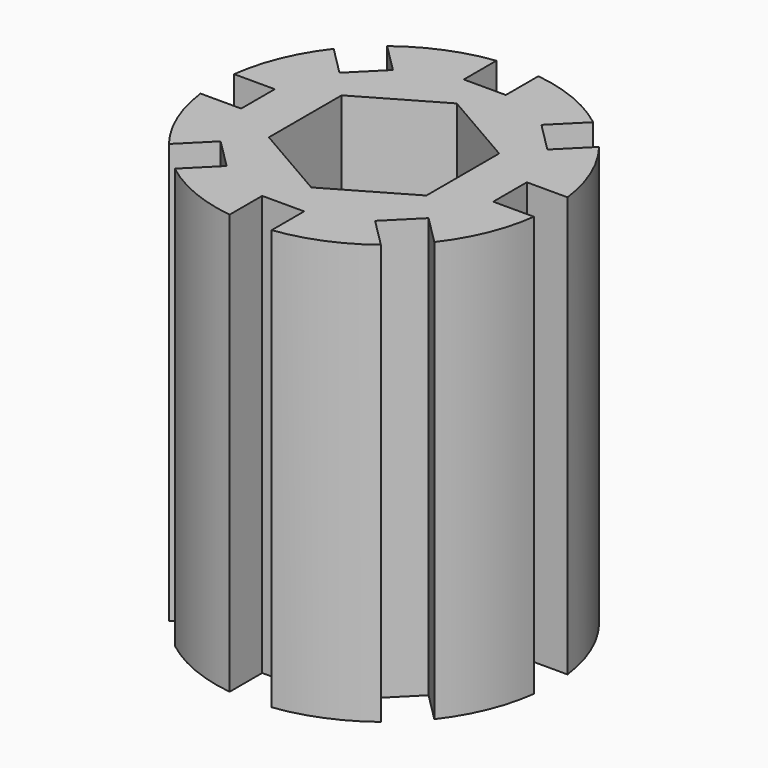
from build123d import *

# Parameters (mm, degrees)
F2_DEPTH = 20


with BuildPart() as f2:
    # F1 (on Top) → F2 (new body)
    with BuildSketch(Plane.XY):
        with BuildLine():
            Line((-1, 6), (-1, 7.937254))
            ThreePointArc((-1, 7.937254), (-3.061467, 7.391036), (-4.905379, 6.319593))
            Line((-4.905379, 6.319593), (-3.535534, 4.949747))
            Line((-3.535534, 4.949747), (-4.949747, 3.535534))
            Line((-4.949747, 3.535534), (-6.319593, 4.905379))
            ThreePointArc((-6.319593, 4.905379), (-7.391036, 3.061467), (-7.937254, 1))
            Line((-7.937254, 1), (-6, 1))
            Line((-6, 1), (-6, -1))
            Line((-6, -1), (-7.937254, -1))
            ThreePointArc((-7.937254, -1), (-7.391036, -3.061467), (-6.319593, -4.905379))
            Line((-6.319593, -4.905379), (-4.949747, -3.535534))
            Line((-4.949747, -3.535534), (-3.535534, -4.949747))
            Line((-3.535534, -4.949747), (-4.905379, -6.319593))
            ThreePointArc((-4.905379, -6.319593), (-3.061467, -7.391036), (-1, -7.937254))
            Line((-1, -7.937254), (-1, -6))
            Line((-1, -6), (1, -6))
            Line((1, -6), (1, -7.937254))
            ThreePointArc((1, -7.937254), (3.061467, -7.391036), (4.905379, -6.319593))
            Line((4.905379, -6.319593), (3.535534, -4.949747))
            Line((3.535534, -4.949747), (4.949747, -3.535534))
            Line((4.949747, -3.535534), (6.319593, -4.905379))
            ThreePointArc((6.319593, -4.905379), (7.391036, -3.061467), (7.937254, -1))
            Line((7.937254, -1), (6, -1))
            Line((6, -1), (6, 1))
            Line((6, 1), (7.937254, 1))
            ThreePointArc((7.937254, 1), (7.391036, 3.061467), (6.319593, 4.905379))
            Line((6.319593, 4.905379), (4.949747, 3.535534))
            Line((4.949747, 3.535534), (3.535534, 4.949747))
            Line((3.535534, 4.949747), (4.905379, 6.319593))
            ThreePointArc((4.905379, 6.319593), (3.061467, 7.391036), (1, 7.937254))
            Line((1, 7.937254), (1, 6))
            Line((1, 6), (-1, 6))
        make_face()
        Polygon((-3.75, 2.165064), (0, 4.330127), (3.75, 2.165064), (3.75, -2.165064), (0, -4.330127), (-3.75, -2.165064), align=None, mode=Mode.SUBTRACT)
    extrude(amount=F2_DEPTH)


solid = f2.part
